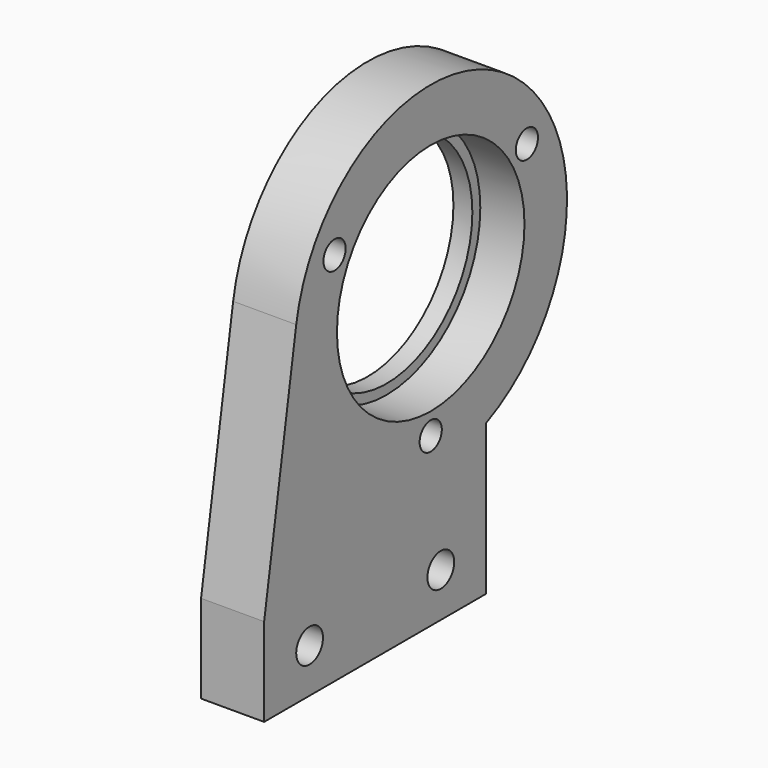
from build123d import *

# Parameters (mm, degrees)
SKETCH049_R         = 17
PAD030_DEPTH        = 10
SKETCH066_R         = 18.575
POCKET019_DEPTH     = 7
HOLE005_D           = 5.3
HOLE005_DEPTH       = 25
HOLE005_CBORE_D     = 8.7
HOLE005_CBORE_DEPTH = 5.4
SKETCH061_R         = 2.2
POCKET021_DEPTH     = 10.001


with BuildPart() as part:
    # Sketch049 → Pad030 (new body)
    with BuildSketch(Plane.YZ.offset(81)):
        with BuildLine():
            ThreePointArc((1, -34.657656), (6.482261, 11.385394), (-36.646111, -5.64285))
            Line((-43, -44.5), (-36.646111, -5.64285))
            Line((-43, -58.5), (-43, -44.5))
            Line((-43, -58.5), (1, -58.5))
            Line((1, -58.5), (1, -34.657656))
        make_face()
        with Locations((-10, -10)):
            Circle(SKETCH049_R, mode=Mode.SUBTRACT)
    extrude(amount=PAD030_DEPTH)

    # Sketch066 → Pocket019 (cut)
    with BuildSketch(Plane.YZ.offset(91)):
        with Locations((-10, -10)):
            Circle(SKETCH066_R)
    extrude(amount=-POCKET019_DEPTH, mode=Mode.SUBTRACT)

    # Hole005
    with Locations(Plane(origin=(81, 0, 0), x_dir=(0, 1, 0), z_dir=(-1, 0, 0))):
        with Locations((-34, 51.5), (-8, 51.5)):
            CounterBoreHole(HOLE005_D / 2, HOLE005_CBORE_D / 2, HOLE005_CBORE_DEPTH, depth=HOLE005_DEPTH)

    # Sketch061 → Pocket021 (cut, through all)
    with BuildSketch(Plane.YZ.offset(81)):
        with Locations((-29.052559, 1)):
            Circle(SKETCH061_R)
        with Locations((9.052559, 1)):
            Circle(SKETCH061_R)
        with Locations((-10, -32)):
            Circle(SKETCH061_R)
    extrude(amount=POCKET021_DEPTH, mode=Mode.SUBTRACT)


with BuildPart() as part_1:
    # Body012 placement: moved
    add(part.part.moved(Location((-6, 0, 0))))


solid = part_1.part
